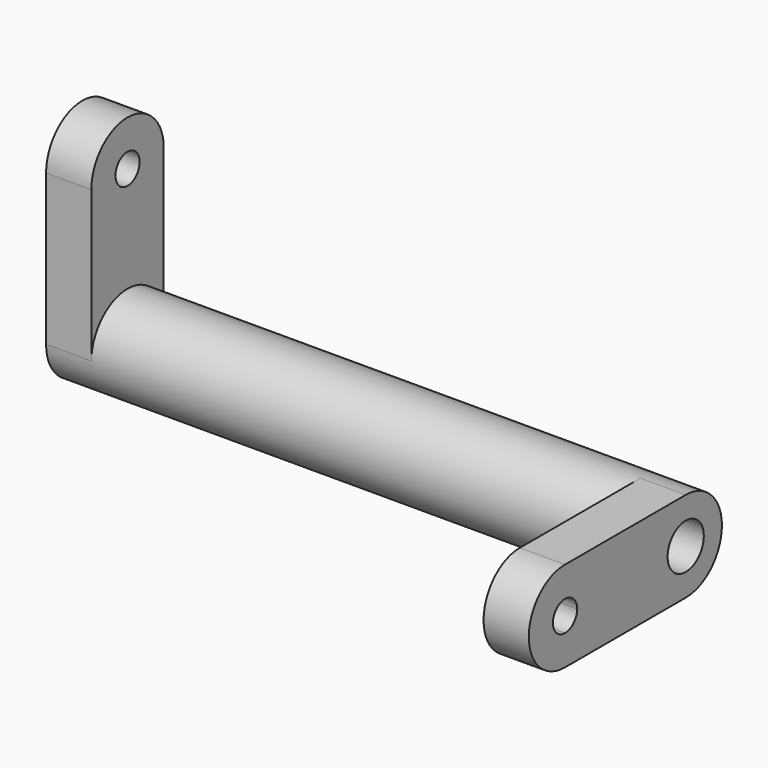
from build123d import *

# Parameters (mm, degrees)
F0_R     = 3
F0_R_2   = 1.5
F1_DEPTH = 40
F3_DEPTH = 3
F5_DEPTH = 3


with BuildPart() as f1:
    # F0 (on Right) → F1 (new body)
    with BuildSketch(Plane.YZ):
        Circle(F0_R)
        Circle(F0_R_2, mode=Mode.SUBTRACT)
    extrude(amount=F1_DEPTH)

    # F2 (on face) → F3 (join)
    with BuildSketch(Plane.YZ.offset(40)):
        with BuildLine():
            Line((-10, -3), (0, -3))
            ThreePointArc((0, -3), (-3, 0), (0, 3))
            Line((0, 3), (-10, 3))
            ThreePointArc((-10, 3), (-7.8786796564, 2.1213203436), (-7, 0))
            ThreePointArc((-7, 0), (-7.8786796564, -2.1213203436), (-10, -3))
        make_face()
        with BuildLine():
            Line((-10, -1), (-10, -3))
            ThreePointArc((-10, -3), (-7.8786796564, -2.1213203436), (-7, 0))
            ThreePointArc((-7, 0), (-7.8786796564, 2.1213203436), (-10, 3))
            Line((-10, 3), (-10, 1))
            ThreePointArc((-10, 1), (-9.2928932188, 0.7071067812), (-9, 0))
            ThreePointArc((-9, 0), (-9.2928932188, -0.7071067812), (-10, -1))
        make_face()
        with BuildLine():
            ThreePointArc((-10, 3), (-13, 0), (-10, -3))
            Line((-10, -3), (-10, -1))
            ThreePointArc((-10, -1), (-11, 0), (-10, 1))
            Line((-10, 1), (-10, 3))
        make_face()
    extrude(amount=-F3_DEPTH)

    # F4 (on face) → F5 (join)
    with BuildSketch(Plane(origin=(0, 0, 0), x_dir=(0, -1, 0), z_dir=(-1, 0, 0))):
        with BuildLine():
            ThreePointArc((-3, 0), (0, 3), (3, 0))
            Line((3, 0), (3, 10))
            ThreePointArc((3, 10), (0, 7), (-3, 10))
            Line((-3, 10), (-3, 0))
        make_face()
        with BuildLine():
            ThreePointArc((-3, 10), (0, 7), (3, 10))
            Line((3, 10), (1, 10))
            ThreePointArc((1, 10), (0, 9), (-1, 10))
            Line((-1, 10), (-3, 10))
        make_face()
        with BuildLine():
            Line((1, 10), (3, 10))
            ThreePointArc((3, 10), (0, 13), (-3, 10))
            Line((-3, 10), (-1, 10))
            ThreePointArc((-1, 10), (0, 11), (1, 10))
        make_face()
    extrude(amount=-F5_DEPTH)


solid = f1.part
